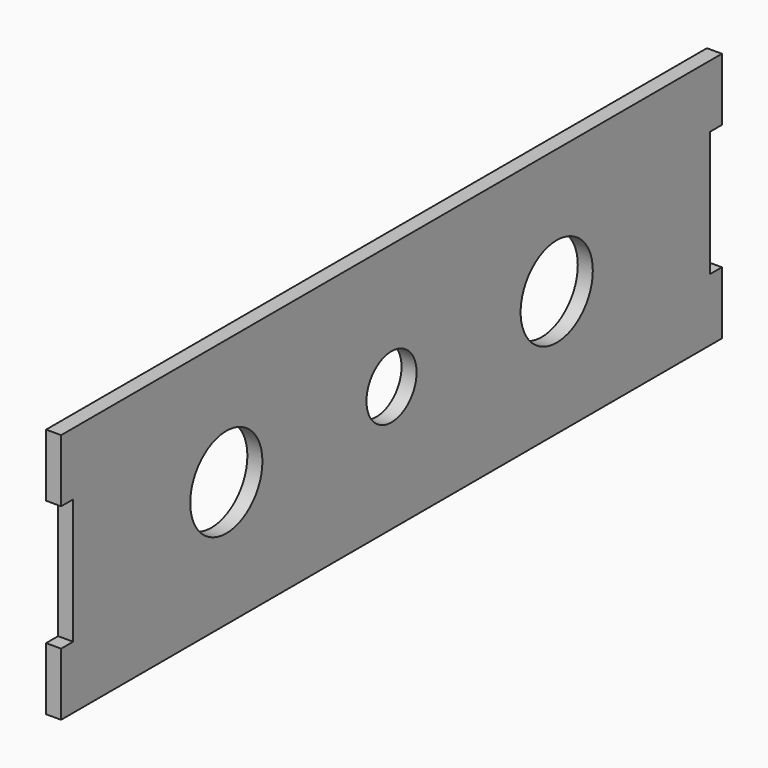
from build123d import *

# Parameters (mm, degrees)
F1_DEPTH = 6
F2_R     = 18
F2_R_2   = 12.5
F3_DEPTH = 25


with BuildPart() as f1:
    # F0 (on Right) → F1 (new body)
    with BuildSketch(Plane.YZ):
        Polygon((61.581665, 58.027008), (-256.018335, 58.027008), (-262.018335, 58.027008), (-262.018335, 33.027008), (-256.018335, 33.027008), (-256.018335, -16.972992), (-262.018335, -16.972992), (-262.018335, -41.972992), (-256.018335, -41.972992), (61.581665, -41.972992), (67.581665, -41.972992), (67.581665, -16.972992), (61.581665, -16.972992), (61.581665, 33.027008), (67.581665, 33.027008), (67.581665, 58.027008), align=None)
    extrude(amount=F1_DEPTH)

    # F2 (on face) → F3 (cut)
    with BuildSketch(Plane.YZ.offset(6)):
        with Locations((-179.618335, 8.027008)):
            Circle(F2_R)
        with Locations((-97.218335, 8.027008)):
            Circle(F2_R_2)
        with Locations((-14.818335, 8.027008)):
            Circle(F2_R)
    extrude(amount=-F3_DEPTH, mode=Mode.SUBTRACT)


solid = f1.part
